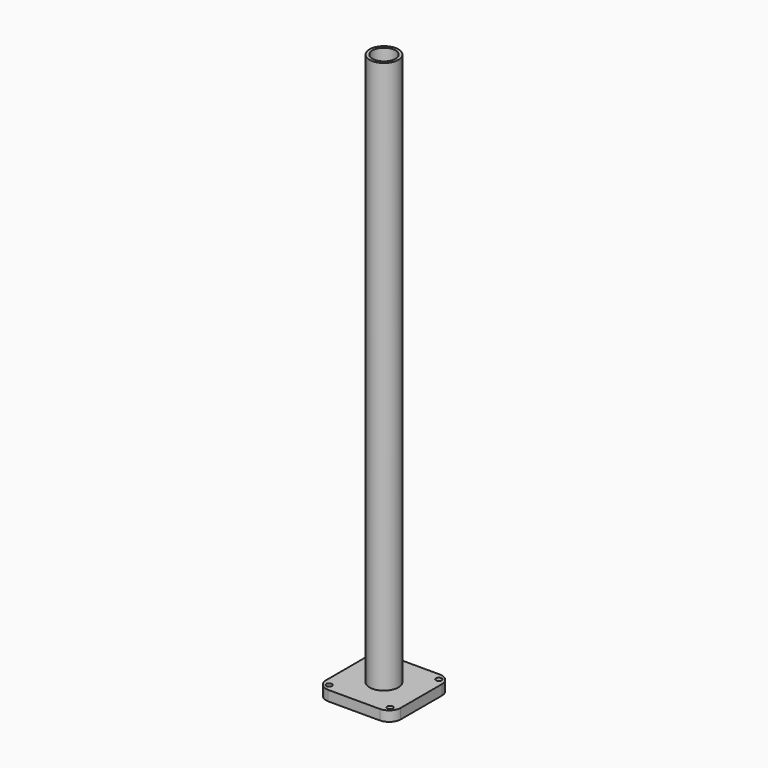
from build123d import *

# Parameters (mm, degrees)
F0_R     = 1.5875
F0_R_2   = 7.9375
F1_DEPTH = 5.588
F0_R_3   = 6.35
F2_DEPTH = 310.388


with BuildPart() as f1:
    # F0 (on Top) → F1 (new body)
    with BuildSketch(Plane.XY):
        with BuildLine():
            Line((14.2875, 20.6375), (-14.2875, 20.6375))
            ThreePointArc((-14.2875, 20.6375), (-18.7325, 18.7325), (-20.6375, 14.2875))
            Line((-20.6375, 14.2875), (-20.6375, -14.2875))
            ThreePointArc((-20.6375, -14.2875), (-18.7325, -18.7325), (-14.2875, -20.6375))
            Line((-14.2875, -20.6375), (14.2875, -20.6375))
            ThreePointArc((14.2875, -20.6375), (18.7325, -18.7325), (20.6375, -14.2875))
            Line((20.6375, -14.2875), (20.6375, 14.2875))
            ThreePointArc((20.6375, 14.2875), (18.7325, 18.7325), (14.2875, 20.6375))
        make_face()
        with Locations((-16.8275, -16.8275)):
            Circle(F0_R, mode=Mode.SUBTRACT)
        with Locations((16.8275, -16.8275)):
            Circle(F0_R, mode=Mode.SUBTRACT)
        with Locations((-16.8275, 16.8275)):
            Circle(F0_R, mode=Mode.SUBTRACT)
        Circle(F0_R_2, mode=Mode.SUBTRACT)
        with Locations((16.8275, 16.8275)):
            Circle(F0_R, mode=Mode.SUBTRACT)
    extrude(amount=F1_DEPTH)


with BuildPart() as f2:
    # F0 (on Top) → F2 (new body)
    with BuildSketch(Plane.XY):
        Circle(F0_R_2)
        Circle(F0_R_3, mode=Mode.SUBTRACT)
    extrude(amount=F2_DEPTH)


solid = Compound([f1.part, f2.part])
